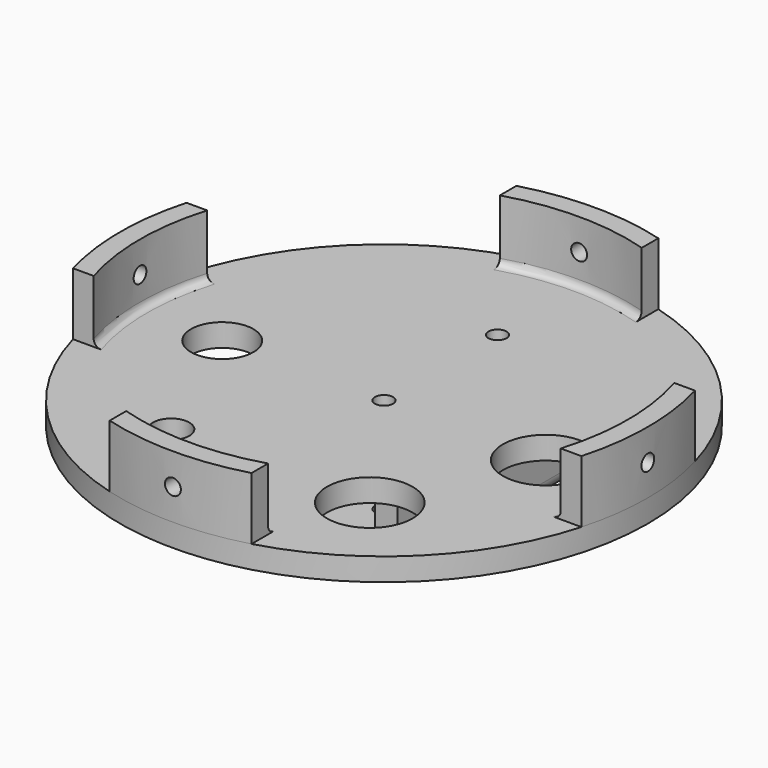
from build123d import *

# Parameters (mm, degrees)
SKETCH143_R       = 3.2
EXTRUDE044_DEPTH  = 50
EXTRUDE020_DEPTH  = 10
CYLINDER133_R     = 2.8
CYLINDER133_DEPTH = 300
CYLINDER134_R     = 2.8
CYLINDER134_DEPTH = 300
EXTRUDE023_DEPTH  = 30
SKETCH037_R       = 93
SKETCH037_R_2     = 11
SKETCH037_R_3     = 15.1
SKETCH037_R_4     = 6.4
EXTRUDE019_DEPTH  = 8
EXTRUDE036_DEPTH  = 100
FILLET008_R       = 5
FILLET009_R       = 2
FILLET010_R       = 5
FILLET012_R       = 2.5


with BuildPart() as extrude044:
    # Sketch143 → Extrude044 (new body)
    with BuildSketch(Plane.XY):
        with Locations((0, -150)):
            Circle(SKETCH143_R)
        with Locations((0, -100)):
            Circle(SKETCH143_R)
    extrude(amount=EXTRUDE044_DEPTH)


with BuildPart() as extrude044_1:
    # Extrude044 placement: moved
    add(extrude044.part.moved(Location((0, 0, -290))))


with BuildPart() as obj1:
    # Sketch038 → Extrude020 (new body)
    with BuildSketch(Plane.XY):
        with BuildLine():
            ThreePointArc((-5, -220), (0, -225), (5, -220))
            Line((5, -220), (5, -212.5))
            ThreePointArc((5, -212.5), (0, -207.5), (-5, -212.5))
            Line((-5, -212.5), (-5, -220))
        make_face()
    extrude(amount=EXTRUDE020_DEPTH)


with BuildPart() as obj1_1:
    # Extrude020 placement: moved
    add(obj1.part.moved(Location((0, 0, -246.5))))


with BuildPart() as cylinder133:
    # Cylinder133 → Cylinder133 (new body)
    with BuildSketch(Plane(origin=(0, 0, 90), x_dir=(1, 0, 0), z_dir=(0, -1, 0))):
        Circle(CYLINDER133_R)
    extrude(amount=CYLINDER133_DEPTH)


with BuildPart() as m4heatsetcuts001:
    # Cylinder134 → Cylinder134 (new body)
    with BuildSketch(Plane(origin=(-150, -150, 90), x_dir=(0, 1, 0), z_dir=(1, 0, 0))):
        Circle(CYLINDER134_R)
    extrude(amount=CYLINDER134_DEPTH)

    # Fusion085: union Cylinder133
    add(cylinder133.part)


with BuildPart() as m4heatsetcuts001_1:
    # Fusion085 placement: moved
    add(m4heatsetcuts001.part.moved(Location((0, 0, -321))))


with BuildPart() as obj2:
    # Sketch041 → Extrude023 (new body)
    with BuildSketch(Plane.XY):
        with BuildLine():
            ThreePointArc((-89.576783, -125), (-93, -150), (-89.576783, -175))
            Line((-89.576783, -175), (-82.286086, -175))
            ThreePointArc((-82.286086, -125), (-86, -150), (-82.286086, -175))
            Line((-89.576783, -125), (-82.286086, -125))
        make_face()
        with BuildLine():
            ThreePointArc((25, -60.423217), (0, -57), (-25, -60.423217))
            Line((-25, -60.423217), (-25, -67.713914))
            ThreePointArc((25, -67.713914), (0, -64), (-25, -67.713914))
            Line((25, -60.423217), (25, -67.713914))
        make_face()
        with BuildLine():
            ThreePointArc((89.576783, -175), (93, -150), (89.576783, -125))
            Line((89.576783, -125), (82.286086, -125))
            ThreePointArc((82.286086, -175), (86, -150), (82.286086, -125))
            Line((89.576783, -175), (82.286086, -175))
        make_face()
        with BuildLine():
            ThreePointArc((-25, -239.576783), (0, -243), (25, -239.576783))
            Line((25, -239.576783), (25, -232.286086))
            ThreePointArc((-25, -232.286086), (0, -236), (25, -232.286086))
            Line((-25, -239.576783), (-25, -232.286086))
        make_face()
    extrude(amount=EXTRUDE023_DEPTH)


with BuildPart() as obj2_1:
    # Extrude023 placement: moved
    add(obj2.part.moved(Location((0, 0, -250))))


with BuildPart() as level5s:
    # Sketch037 → Extrude019 (new body)
    with BuildSketch(Plane.XY):
        with Locations((0, -150)):
            Circle(SKETCH037_R)
        with Locations((-57, -150)):
            Circle(SKETCH037_R_2, mode=Mode.SUBTRACT)
        with Locations((57, -150)):
            Circle(SKETCH037_R_3, mode=Mode.SUBTRACT)
        with Locations((35, -200)):
            Circle(SKETCH037_R_3, mode=Mode.SUBTRACT)
        with Locations((-35, -200)):
            Circle(SKETCH037_R_4, mode=Mode.SUBTRACT)
        with BuildLine():
            ThreePointArc((-3.2, -216.158125), (0, -225), (3.2, -216.158125))
            Line((3.2, -216.158125), (3.2, -212.5))
            ThreePointArc((3.2, -212.5), (0, -209.3), (-3.2, -212.5))
            Line((-3.2, -212.5), (-3.2, -216.158125))
        make_face(mode=Mode.SUBTRACT)
    extrude(amount=EXTRUDE019_DEPTH)


with BuildPart() as level5s_1:
    # Extrude019 placement: moved
    add(level5s.part.moved(Location((0, 0, -250))))

    # Fusion083: union obj2
    add(obj2_1.part)

    # Cut035: cut m4HeatSetCuts001
    add(m4heatsetcuts001_1.part, mode=Mode.SUBTRACT)

    # Cut041: cut obj1
    add(obj1_1.part, mode=Mode.SUBTRACT)


with BuildPart() as level5s008:
    # Sketch054 → Extrude036 (new body)
    with BuildSketch(Plane.XZ):
        Polygon((-20.75, -250), (-12.75, -250), (-12.75, -275.75), (12.75, -275.75), (12.75, -250), (20.75, -250), (20.75, -283.75), (-20.75, -283.75), align=None)
    extrude(amount=EXTRUDE036_DEPTH)


with BuildPart() as level5s008_1:
    # Extrude036 placement: moved
    add(level5s008.part.moved(Location((0, -70, 0))))

    # Fillet008
    fillet008_edges = [level5s008_1.edges().sort_by_distance(p)[0] for p in [
        (20.75, -120, -283.75),
        (-20.75, -120, -283.75),
    ]]
    fillet(fillet008_edges, radius=FILLET008_R)

    # Fillet009
    fillet009_edges = [level5s008_1.edges().sort_by_distance(p)[0] for p in [
        (12.75, -120, -275.75),
        (-12.75, -120, -275.75),
    ]]
    fillet(fillet009_edges, radius=FILLET009_R)

    # Fusion104: union level5s
    add(level5s_1.part)

    # Fillet010
    fillet010_edges = [level5s008_1.edges().sort_by_distance(p)[0] for p in [
        (-20.75, -120, -250),
        (20.75, -120, -250),
    ]]
    fillet(fillet010_edges, radius=FILLET010_R)

    # Cut086: cut Extrude044
    add(extrude044_1.part, mode=Mode.SUBTRACT)

    # Fillet012
    fillet012_edges = [level5s008_1.edges().sort_by_distance(p)[0] for p in [
        (86, -150, -242),
        (0, -64, -242),
        (0, -236, -242),
        (-86, -150, -242),
    ]]
    fillet(fillet012_edges, radius=FILLET012_R)


solid = level5s008_1.part
